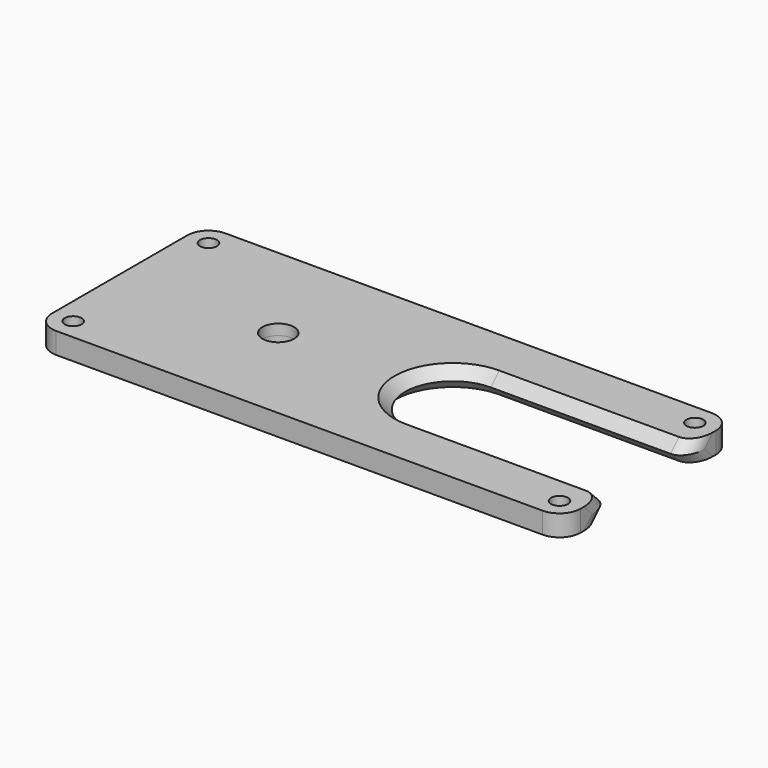
from build123d import *

# Parameters (mm, degrees)
PAD_DEPTH         = 100
SKETCH001_R       = 3
SKETCH001_R_2     = 1.6
POCKET_DEPTH      = 2.001
POCKET_DEPTH_BACK = 2.001
SKETCH004_R       = 11
SKETCH003_R       = 9
SKETCH005_R       = 11
FILLET_R          = 4
FILLET001_R       = 3


with BuildPart() as part:
    # Sketch → Pad (new body)
    with BuildSketch(Plane.YZ):
        Polygon((0, 2), (-20, 2), (-20, 0), (-20, -2), (0, -2), (20, -2), (20, 0), (20, 2), align=None)
    extrude(amount=PAD_DEPTH)

    # Sketch001 → Pocket (cut, two sides)
    with BuildSketch(Plane.XY) as pocket_sk:
        with Locations((30, 0)):
            Circle(SKETCH001_R)
        with Locations((4, 16)):
            Circle(SKETCH001_R_2)
        with Locations((4, -16)):
            Circle(SKETCH001_R_2)
        with Locations((96, 16)):
            Circle(SKETCH001_R_2)
        with Locations((96, -16)):
            Circle(SKETCH001_R_2)
    extrude(amount=-POCKET_DEPTH, mode=Mode.SUBTRACT)
    extrude(pocket_sk.sketch, amount=POCKET_DEPTH_BACK, mode=Mode.SUBTRACT)

    # Sketch004 (on DatumPlane) → SubtractiveLoft section 0
    with BuildSketch(Plane.XY.offset(2)):
        with Locations((63, 0)):
            Circle(SKETCH004_R)
    # Sketch003 → SubtractiveLoft section 1
    with BuildSketch(Plane.XY):
        with Locations((63, 0)):
            Circle(SKETCH003_R)
    # Sketch005 (on DatumPlane) → SubtractiveLoft section 2
    with BuildSketch(Plane.XY.offset(-2)):
        with Locations((63, 0)):
            Circle(SKETCH005_R)
    loft(ruled=True, mode=Mode.SUBTRACT)

    # Sketch007 (on DatumPlane) → SubtractiveLoft001 section 0
    with BuildSketch(Plane.XY.offset(2)):
        Polygon((63, 0), (63, 11), (113, 11), (113, -11), (63, -11), align=None)
    # Sketch006 → SubtractiveLoft001 section 1
    with BuildSketch(Plane.XY):
        Polygon((63, 0), (63, 9), (113, 9), (113, -9), (63, -9), align=None)
    # Sketch008 (on DatumPlane) → SubtractiveLoft001 section 2
    with BuildSketch(Plane.XY.offset(-2)):
        Polygon((63, 11), (63, 0), (63, -11), (113, -11), (113, 11), align=None)
    loft(ruled=True, mode=Mode.SUBTRACT)

    # Fillet
    fillet_edges = [part.edges().sort_by_distance(p)[0] for p in [
        (100, -20, 1),
        (100, 20, 1),
        (0, 20, 1),
        (0, -20, 1),
    ]]
    fillet(fillet_edges, radius=FILLET_R)

    # Fillet001
    fillet001_edges = [part.edges().sort_by_distance(p)[0] for p in [
        (100, -10, 1),
        (100, -10, -1),
        (100, 10, 1),
        (100, 10, -1),
    ]]
    fillet(fillet001_edges, radius=FILLET001_R)


solid = part.part
